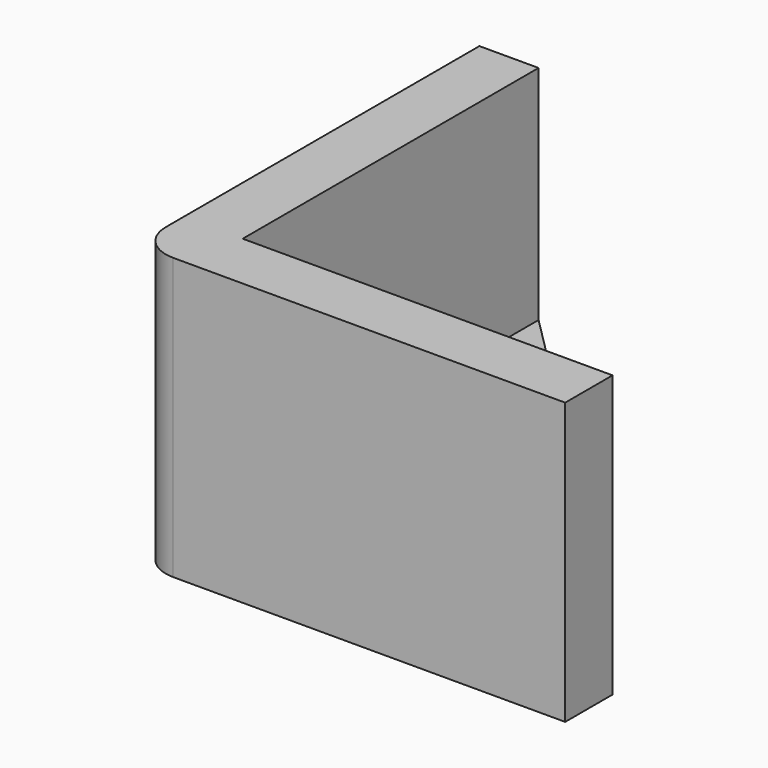
from build123d import *

# Parameters (mm, degrees)
F0_W     = 58
F0_H     = 58
F1_DEPTH = 8
F3_DEPTH = 30
F5_DEPTH = 8.001
F6_R     = 5


with BuildPart() as f1:
    # F0 (on Top) → F1 (new body)
    with BuildSketch(Plane.XY):
        Rectangle(F0_W, F0_H)
    extrude(amount=F1_DEPTH)

    # F2 (on face) → F3 (join)
    with BuildSketch(Plane.XY.offset(8)):
        Polygon((-29, 29), (-29, -29), (29, -29), (29, -21), (-21, -21), (-21, 29), align=None)
    extrude(amount=F3_DEPTH)

    # F4 (on face) → F5 (cut, through all)
    with BuildSketch(Plane.XY.offset(8)):
        Polygon((29, 29), (-21, 29), (29, -21), align=None)
    extrude(amount=-F5_DEPTH, mode=Mode.SUBTRACT)

    # F6
    f6_edges = [f1.edges().sort_by_distance(p)[0] for p in [
        (-29, -29, 19),
    ]]
    fillet(f6_edges, radius=F6_R)


solid = f1.part
